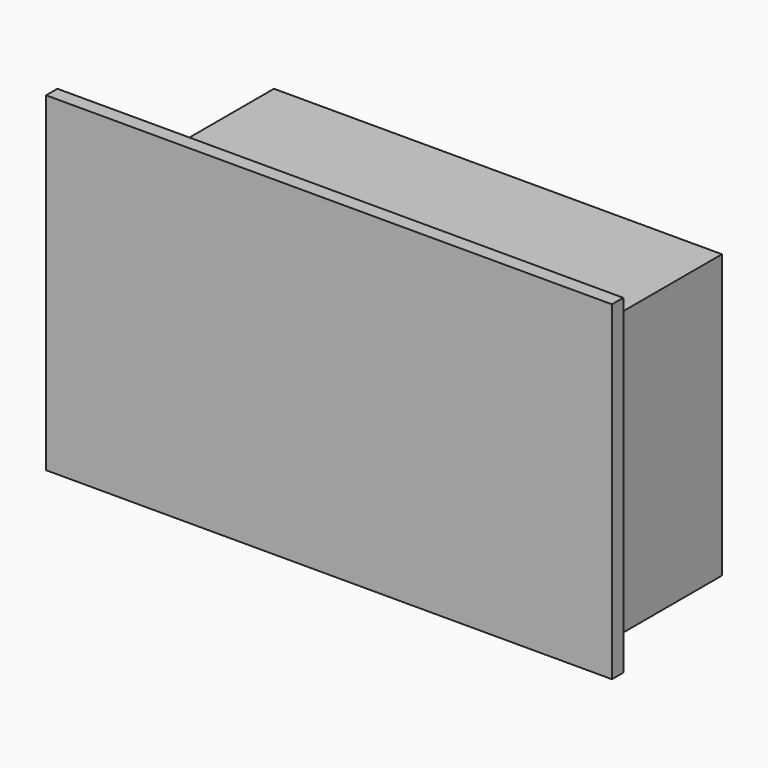
from build123d import *

# Parameters (mm, degrees)
BOX038_W     = 60
BOX038_H     = 1.5
BOX038_DEPTH = 35
BOX037_W     = 47.5
BOX037_H     = 17.2
BOX037_DEPTH = 27
BOX036_W     = 47.5
BOX036_H     = 18.7
BOX036_DEPTH = 30


with BuildPart() as cube038:
    # Box038 → Box038 (new body)
    with BuildSketch(Plane(origin=(192, 89.5, 0), x_dir=(1, 0, 0), z_dir=(0, 0, 1))):
        with Locations((30, 0.75)):
            Rectangle(BOX038_W, BOX038_H)
    extrude(amount=BOX038_DEPTH)


with BuildPart() as cube037:
    # Box037 → Box037 (new body)
    with BuildSketch(Plane(origin=(-1.5, 0, 60), x_dir=(1, 0, 0), z_dir=(0, 0, 1))):
        with Locations((23.75, 8.6)):
            Rectangle(BOX037_W, BOX037_H)
    extrude(amount=BOX037_DEPTH)


with BuildPart() as batteryholdertest:
    # Box036 → Box036 (new body)
    with BuildSketch(Plane.XY.offset(58.5)):
        with Locations((23.75, 9.35)):
            Rectangle(BOX036_W, BOX036_H)
    extrude(amount=BOX036_DEPTH)

    # Cut045: cut Cube037
    add(cube037.part, mode=Mode.SUBTRACT)


with BuildPart() as batteryholdertest_1:
    # Cut045 placement: moved
    add(batteryholdertest.part.moved(Location((200, 91, -58.5))))

    # Connect004: union Cube038
    add(cube038.part)


solid = batteryholdertest_1.part
